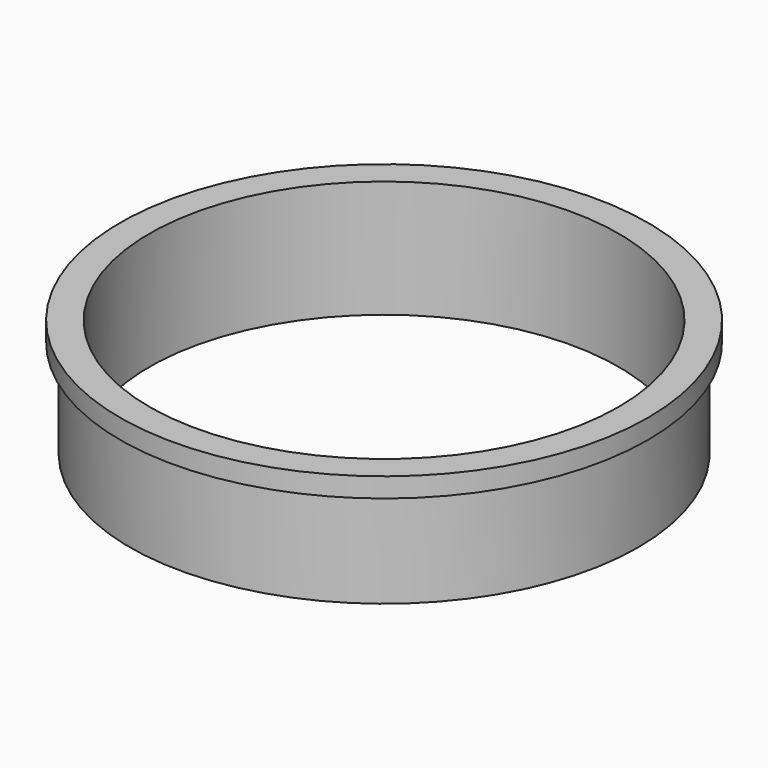
from build123d import *

# Parameters (mm, degrees)
CYLINDER_R        = 24
CYLINDER_DEPTH    = 16
CYLINDER002_R     = 27
CYLINDER002_DEPTH = 2
CYLINDER001_R     = 26
CYLINDER001_DEPTH = 10


with BuildPart() as agujero:
    # Cylinder → Cylinder (new body)
    with BuildSketch(Plane.XY.offset(-2)):
        Circle(CYLINDER_R)
    extrude(amount=CYLINDER_DEPTH)


with BuildPart() as obj1:
    # Cylinder002 → Cylinder002 (new body)
    with BuildSketch(Plane.XY.offset(10)):
        Circle(CYLINDER002_R)
    extrude(amount=CYLINDER002_DEPTH)


with BuildPart() as cut:
    # Cylinder001 → Cylinder001 (new body)
    with BuildSketch(Plane.XY):
        Circle(CYLINDER001_R)
    extrude(amount=CYLINDER001_DEPTH)

    # Fusion: union obj1
    add(obj1.part)

    # Cut: cut agujero
    add(agujero.part, mode=Mode.SUBTRACT)


solid = cut.part
